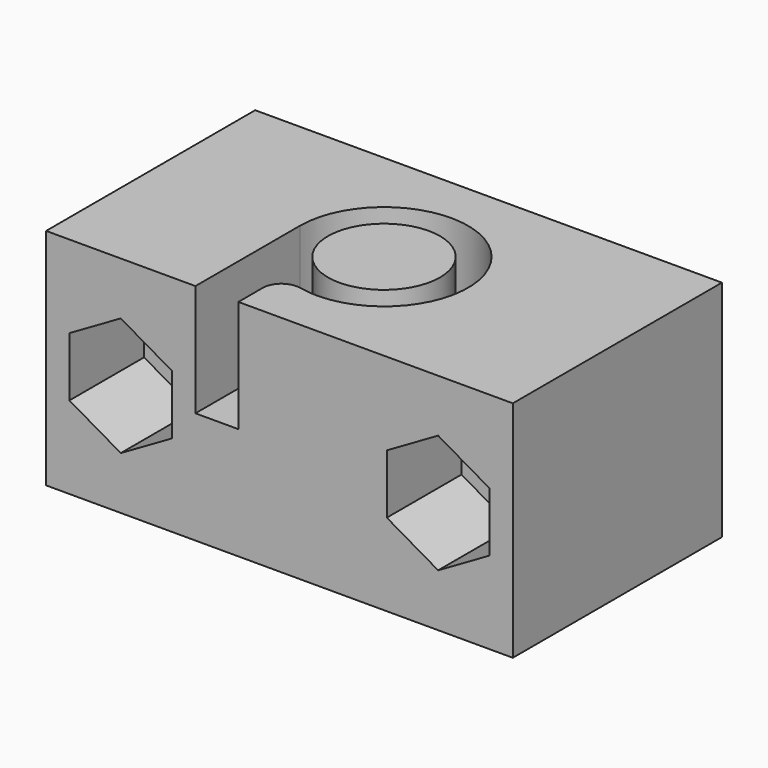
from build123d import *

# Parameters (mm, degrees)
SKETCH_W        = 25
SKETCH_H        = 14
PAD_DEPTH       = 6
SKETCH001_R     = 3
POCKET_DEPTH    = 6
SKETCH002_R     = 1.55
POCKET001_DEPTH = 15
POCKET002_DEPTH = 5
FILLET_R        = 1


with BuildPart() as part:
    # Sketch → Pad (new body, symmetric)
    with BuildSketch(Plane.XY):
        Rectangle(SKETCH_W, SKETCH_H)
    extrude(amount=PAD_DEPTH, both=True)

    # Sketch001 → Pocket (cut)
    with BuildSketch(Plane.XY.offset(6)):
        with BuildLine():
            ThreePointArc((-2.2, -3.925557), (3.882654, 2.274863), (-4.5, 0))
            Line((-4.5, 0), (-4.5, -7))
            Line((-4.5, -7), (-2.2, -7))
            Line((-2.2, -7), (-2.2, -3.925557))
        make_face()
        Circle(SKETCH001_R, mode=Mode.SUBTRACT)
    extrude(amount=-POCKET_DEPTH, mode=Mode.SUBTRACT)

    # Sketch002 → Pocket001 (cut)
    with BuildSketch(Plane(origin=(0, 7, 0), x_dir=(-1, 0, 0), z_dir=(0, 1, 0))):
        with Locations((-8.5, 0)):
            Circle(SKETCH002_R)
        with Locations((8.5, 0)):
            Circle(SKETCH002_R)
    extrude(amount=-POCKET001_DEPTH, mode=Mode.SUBTRACT)

    # Sketch003 → Pocket002 (cut)
    with BuildSketch(Plane.XZ.offset(7)):
        Polygon((-5.75, -1.587713), (-5.75, 1.587713), (-8.5, 3.175426), (-11.25, 1.587713), (-11.25, -1.587713), (-8.5, -3.175426), align=None)
        Polygon((5.75, -1.587713), (8.5, -3.175426), (11.25, -1.587713), (11.25, 1.587713), (8.5, 3.175426), (5.75, 1.587713), align=None)
    extrude(amount=-POCKET002_DEPTH, mode=Mode.SUBTRACT)

    # Fillet
    fillet_edges = [part.edges().sort_by_distance(p)[0] for p in [
        (-2.2, -3.925557, 3),
    ]]
    fillet(fillet_edges, radius=FILLET_R)


solid = part.part
